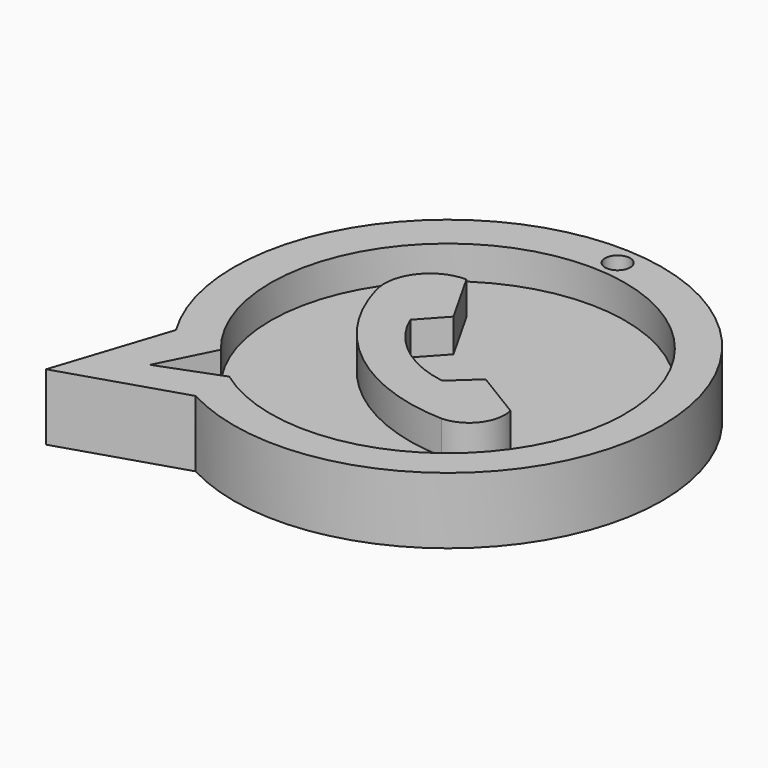
from build123d import *

# Parameters (mm, degrees)
F1_DEPTH = 5
F2_DEPTH = 10
F3_R     = 1.9
F4_DEPTH = 25


with BuildPart() as f1:
    # F0 (on Top) → F1 (new body)
    with BuildSketch(Plane.XY):
        with BuildLine():
            Line((-12.9404729232, -48.7634912133), (5.0499415956, -43.0823117495))
            ThreePointArc((5.0499415956, -43.0823117495), (42.5104539856, 8.7293731877), (-7.2592892684, -31.4043201506))
            Line((-7.2592892684, -31.4043201506), (-12.9404729232, -48.7634912133))
        make_face()
        with BuildLine():
            ThreePointArc((0, -32.0355631411), (38.897729879, 4.3948998346), (5.0499415956, -36.7698818445))
            Line((5.0499415956, -36.7698818445), (-4.1030771099, -40.2417182922))
            Line((-4.1030771099, -40.2417182922), (0, -32.0355631411))
        make_face(mode=Mode.SUBTRACT)
        with BuildLine():
            Line((-4.1030771099, -40.2417182922), (5.0499415956, -36.7698818445))
            ThreePointArc((5.0499415956, -36.7698818445), (38.897729879, 4.3948998346), (0, -32.0355631411))
            Line((0, -32.0355631411), (-4.1030771099, -40.2417182922))
        make_face()
        with BuildLine():
            ThreePointArc((31.2465075403, -29.5105911791), (14.5582264722, -23.4633274209), (4.7343205661, -8.6795864627))
            ThreePointArc((4.7343205661, -8.6795864627), (5.8933290907, -2.69414639), (11.3623663783, 0))
            Line((11.3623663783, 0), (16.096688807, -8.3639649674))
            Line((16.096688807, -8.3639649674), (12.624851428, -12.1514201164))
            ThreePointArc((12.624851428, -12.1514201164), (17.6705032305, -18.6780973296), (25.2497028559, -21.9356808811))
            Line((25.2497028559, -21.9356808811), (29.0371589363, -18.4638462961))
            Line((29.0371589363, -18.4638462961), (36.2964533269, -22.8825435042))
            ThreePointArc((36.2964533269, -22.8825435042), (35.3488593131, -27.39838094), (31.2465075403, -29.5105911791))
        make_face(mode=Mode.SUBTRACT)
        with BuildLine():
            ThreePointArc((11.3623663783, 0), (5.8933290907, -2.69414639), (4.7343205661, -8.6795864627))
            ThreePointArc((4.7343205661, -8.6795864627), (14.5582264722, -23.4633274209), (31.2465075403, -29.5105911791))
            ThreePointArc((31.2465075403, -29.5105911791), (35.3488593131, -27.39838094), (36.2964533269, -22.8825435042))
            Line((36.2964533269, -22.8825435042), (29.0371589363, -18.4638462961))
            Line((29.0371589363, -18.4638462961), (25.2497028559, -21.9356808811))
            ThreePointArc((25.2497028559, -21.9356808811), (17.6705032305, -18.6780973296), (12.624851428, -12.1514201164))
            Line((12.624851428, -12.1514201164), (16.096688807, -8.3639649674))
            Line((16.096688807, -8.3639649674), (11.3623663783, 0))
        make_face()
    extrude(amount=F1_DEPTH)

    # F0 (on Top) → F2 (join)
    with BuildSketch(Plane.XY):
        with BuildLine():
            Line((-12.9404729232, -48.7634912133), (5.0499415956, -43.0823117495))
            ThreePointArc((5.0499415956, -43.0823117495), (42.5104539856, 8.7293731877), (-7.2592892684, -31.4043201506))
            Line((-7.2592892684, -31.4043201506), (-12.9404729232, -48.7634912133))
        make_face()
        with BuildLine():
            ThreePointArc((0, -32.0355631411), (38.897729879, 4.3948998346), (5.0499415956, -36.7698818445))
            Line((5.0499415956, -36.7698818445), (-4.1030771099, -40.2417182922))
            Line((-4.1030771099, -40.2417182922), (0, -32.0355631411))
        make_face(mode=Mode.SUBTRACT)
        with BuildLine():
            ThreePointArc((11.3623663783, 0), (5.8933290907, -2.69414639), (4.7343205661, -8.6795864627))
            ThreePointArc((4.7343205661, -8.6795864627), (14.5582264722, -23.4633274209), (31.2465075403, -29.5105911791))
            ThreePointArc((31.2465075403, -29.5105911791), (35.3488593131, -27.39838094), (36.2964533269, -22.8825435042))
            Line((36.2964533269, -22.8825435042), (29.0371589363, -18.4638462961))
            Line((29.0371589363, -18.4638462961), (25.2497028559, -21.9356808811))
            ThreePointArc((25.2497028559, -21.9356808811), (17.6705032305, -18.6780973296), (12.624851428, -12.1514201164))
            Line((12.624851428, -12.1514201164), (16.096688807, -8.3639649674))
            Line((16.096688807, -8.3639649674), (11.3623663783, 0))
        make_face()
    extrude(amount=F2_DEPTH)

    # F3 (on face) → F4 (cut)
    with BuildSketch(Plane.XY.offset(10)):
        with Locations((22.6168166846, 14.3952518702)):
            Circle(F3_R)
    extrude(amount=-F4_DEPTH, mode=Mode.SUBTRACT)


solid = f1.part
